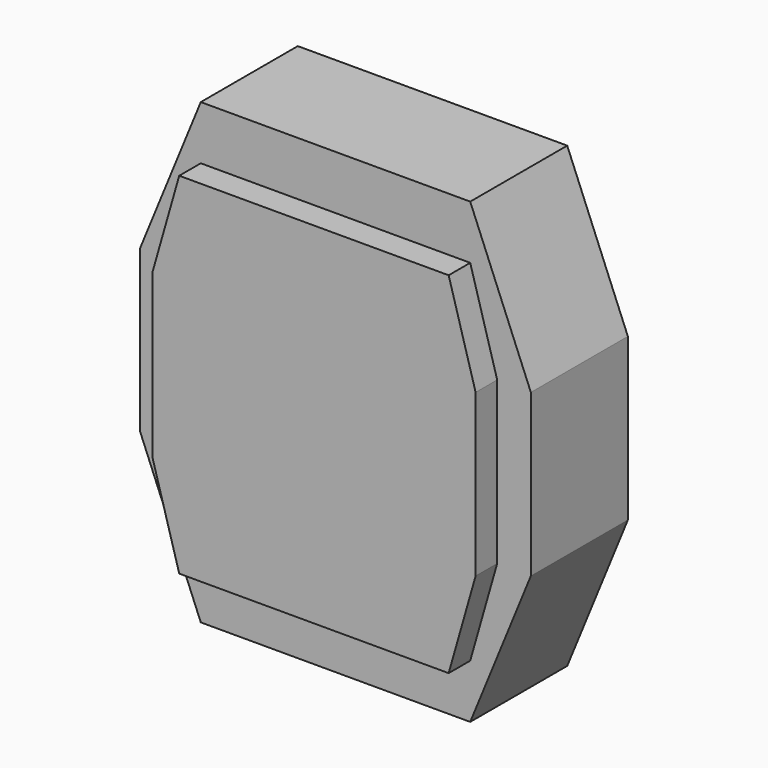
from build123d import *

# Parameters (mm, degrees)
F1_DEPTH = 9
F3_DEPTH = 11


with BuildPart() as f1:
    # F0 (on Front) → F1 (new body)
    with BuildSketch(Plane.XZ):
        Polygon((10, 17), (0, 17), (0, 0), (14.5, 0), (14.5, 6), align=None)
        Polygon((0, 0), (0, 17), (-10, 17), (-14.5, 6), (-14.5, 0), align=None)
        Polygon((14.5, 0), (0, 0), (0, -17), (10, -17), (14.5, -6), align=None)
        Polygon((0, -17), (0, 0), (-14.5, 0), (-14.5, -6), (-10, -17), align=None)
    extrude(amount=F1_DEPTH)


with BuildPart() as f3:
    # F2 (on Front) → F3 (new body)
    with BuildSketch(Plane.XZ):
        Polygon((-10, 13), (-12, 6), (-12, -6), (-10, -13), (10, -13), (12, -6), (12, 6), (10, 13), align=None)
    extrude(amount=F3_DEPTH)


solid = Compound([f1.part, f3.part])
